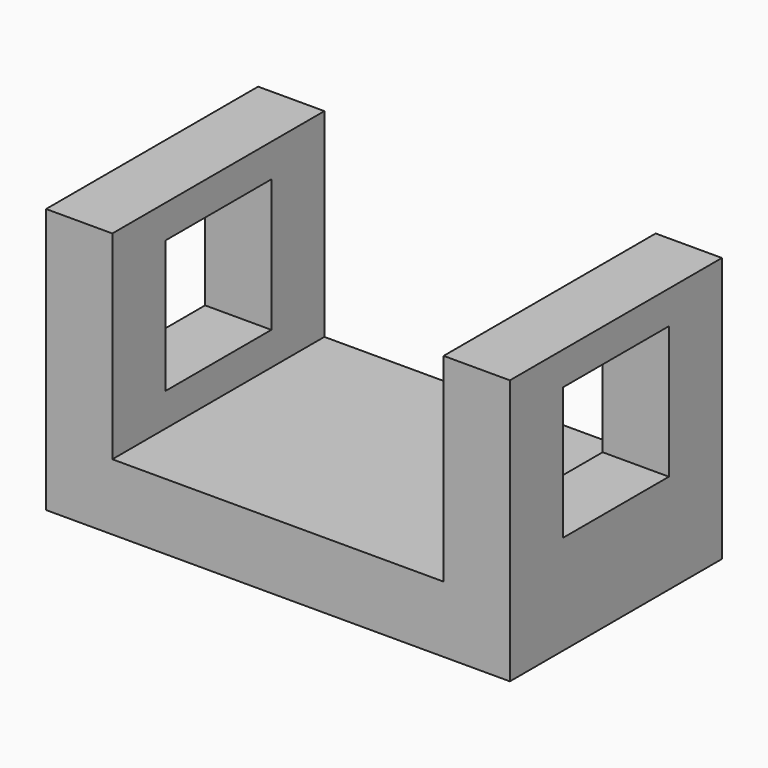
from build123d import *

# Parameters (mm, degrees)
F1_DEPTH = 50.8
F3_DEPTH = 12.7
F5_DEPTH = 12.7


with BuildPart() as f1:
    # F0 (on Front) → F1 (new body)
    with BuildSketch(Plane.XZ):
        Polygon((12.7, 23.005829), (0, 23.005829), (0, -27.794171), (88.9, -27.794171), (88.9, 23.005829), (76.2, 23.005829), (76.2, -15.094171), (12.7, -15.094171), align=None)
    extrude(amount=F1_DEPTH)

    # F2 (on face) → F3 (cut)
    with BuildSketch(Plane.YZ.offset(88.9)):
        Polygon((-12.7, 16.655829), (-38.1, 16.655829), (-38.1, -8.744171), (-21.28173, -8.744171), (-12.7, -8.744171), (-12.7, 3.955829), align=None)
    extrude(amount=-F3_DEPTH, mode=Mode.SUBTRACT)

    # F4 (on face) → F5 (cut)
    with BuildSketch(Plane(origin=(0, 0, 0), x_dir=(0, -1, 0), z_dir=(-1, 0, 0))):
        Polygon((38.1, 16.655829), (12.7, 16.655829), (12.7, -8.744171), (21.049142, -8.744171), (27.328998, -8.744171), (38.1, -8.744171), (38.1, 3.955829), align=None)
    extrude(amount=-F5_DEPTH, mode=Mode.SUBTRACT)


solid = f1.part
